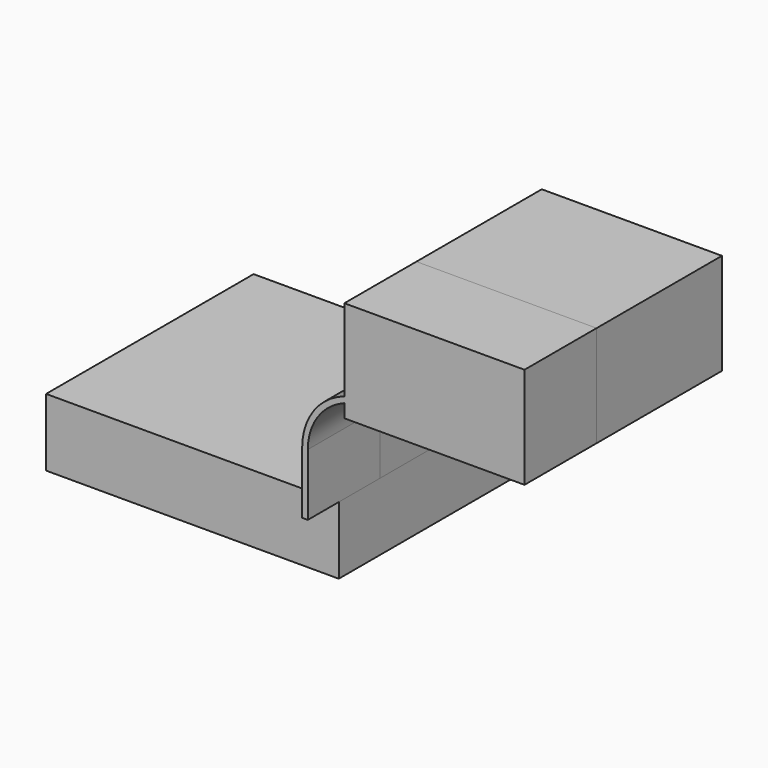
from build123d import *

# Parameters (mm, degrees)
F1_DEPTH = 36.576
F2_DEPTH = 22.098
F3_DEPTH = 25.4


with BuildPart() as f1:
    # F0 (on Front) → F1 (new body, symmetric)
    with BuildSketch(Plane.XZ):
        Polygon((-41.275, -9.525), (41.275, -9.525), (41.275, 9.525), (39.6875, 9.525), (-41.275, 9.525), align=None)
    extrude(amount=F1_DEPTH, both=True)


with BuildPart() as f2:
    # F0 (on Front) → F2 (new body, symmetric)
    with BuildSketch(Plane.XZ):
        Polygon((51.58396, 43.55188), (51.58396, 41.86744), (51.58396, 38.1), (102.38396, 38.1), (102.38396, 66.675), (51.58396, 66.675), align=None)
        with BuildLine():
            Line((39.6875, 9.525), (41.275, 9.525))
            Line((41.275, 9.525), (41.275, 27.0002))
            ThreePointArc((41.275, 27.0002), (44.104378, 36.046048), (51.58396, 41.86744))
            Line((51.58396, 41.86744), (51.58396, 43.55188))
            ThreePointArc((51.58396, 43.55188), (42.970157, 37.191911), (39.6875, 27.0002))
            Line((39.6875, 27.0002), (39.6875, 9.525))
        make_face()
    extrude(amount=F2_DEPTH, both=True)


with BuildPart() as f3:
    # F2_face (on face) → F3 (new body)
    with BuildSketch(Plane(origin=(75.611873, -22.098, 51.409216), x_dir=(1, 0, 0), z_dir=(0, -1, 0))):
        with BuildLine():
            Line((-24.027913, -9.541776), (-24.027913, -13.309216))
            Line((-24.027913, -13.309216), (26.772087, -13.309216))
            Line((26.772087, -13.309216), (26.772087, 15.265784))
            Line((26.772087, 15.265784), (-24.027913, 15.265784))
            Line((-24.027913, 15.265784), (-24.027913, -7.857336))
            ThreePointArc((-24.027913, -7.857336), (-32.641715, -14.217305), (-35.924373, -24.409016))
            Line((-35.924373, -24.409016), (-35.924373, -41.884216))
            Line((-35.924373, -41.884216), (-34.336873, -41.884216))
            Line((-34.336873, -41.884216), (-34.336873, -24.409016))
            ThreePointArc((-34.336873, -24.409016), (-31.507495, -15.363168), (-24.027913, -9.541776))
        make_face()
    extrude(amount=F3_DEPTH)


solid = Compound([f1.part, f2.part, f3.part])
